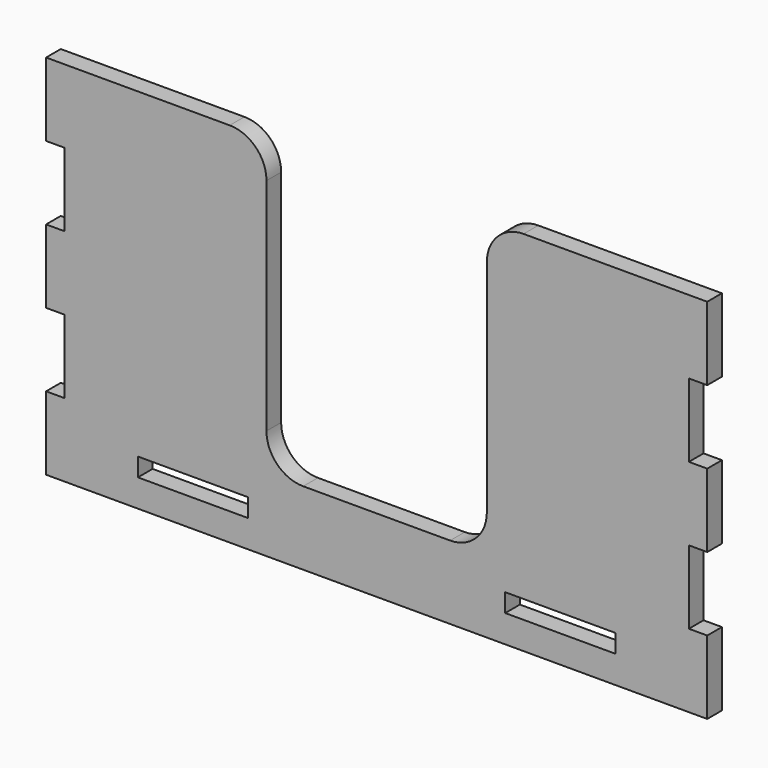
from build123d import *

# Parameters (mm, degrees)
F0_W     = 38.1
F0_H     = 6.35
F1_DEPTH = 6.35


with BuildPart() as f1:
    # F0 (on Front) → F1 (new body)
    with BuildSketch(Plane.XZ):
        with BuildLine():
            Line((-114.3, -12.7), (114.3, -12.7))
            Line((114.3, -12.7), (114.3, 12.7))
            Line((114.3, 12.7), (107.95, 12.7))
            Line((107.95, 12.7), (107.95, 38.1))
            Line((107.95, 38.1), (114.3, 38.1))
            Line((114.3, 38.1), (114.3, 63.5))
            Line((114.3, 63.5), (107.95, 63.5))
            Line((107.95, 63.5), (107.95, 88.9))
            Line((107.95, 88.9), (114.3, 88.9))
            Line((114.3, 88.9), (114.3, 114.3))
            Line((114.3, 114.3), (50.8, 114.3))
            ThreePointArc((50.8, 114.3), (41.819744, 110.580256), (38.1, 101.6))
            Line((38.1, 101.6), (38.1, 25.4))
            ThreePointArc((38.1, 25.4), (34.380256, 16.419744), (25.4, 12.7))
            Line((25.4, 12.7), (-25.4, 12.7))
            ThreePointArc((-25.4, 12.7), (-34.380256, 16.419744), (-38.1, 25.4))
            Line((-38.1, 25.4), (-38.1, 101.6))
            ThreePointArc((-38.1, 101.6), (-41.819744, 110.580256), (-50.8, 114.3))
            Line((-50.8, 114.3), (-114.3, 114.3))
            Line((-114.3, 114.3), (-114.3, 88.9))
            Line((-114.3, 88.9), (-107.95, 88.9))
            Line((-107.95, 88.9), (-107.95, 63.5))
            Line((-107.95, 63.5), (-114.3, 63.5))
            Line((-114.3, 63.5), (-114.3, 38.1))
            Line((-114.3, 38.1), (-107.95, 38.1))
            Line((-107.95, 38.1), (-107.95, 12.7))
            Line((-107.95, 12.7), (-114.3, 12.7))
            Line((-114.3, 12.7), (-114.3, -12.7))
        make_face()
        with Locations((-63.5, 0)):
            Rectangle(F0_W, F0_H, mode=Mode.SUBTRACT)
        with Locations((63.5, 0)):
            Rectangle(F0_W, F0_H, mode=Mode.SUBTRACT)
    extrude(amount=F1_DEPTH)


solid = f1.part
